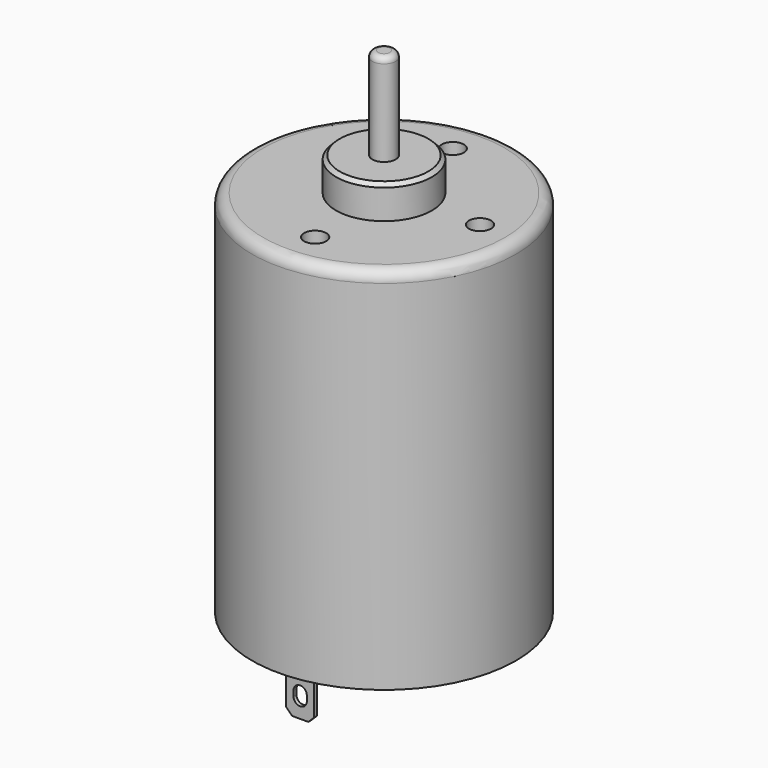
from build123d import *

# Parameters (mm, degrees)
F0_R      = 17.9
F1_DEPTH  = 50
F2_R      = 5.1
F3_DEPTH  = 3
F4_R      = 1.585
F5_DEPTH  = 1
F6_R      = 6.5
F7_DEPTH  = 4.5
F8_DEPTH  = 71
F9_W      = 6
F9_H      = 2.8
F10_DEPTH = 1
F11_W     = 3.8
F11_H     = 0.5
F12_DEPTH = 6
F13_SIZE  = 0.8
F14_R     = 0.5
F15_SIZE  = 0.3
F17_DEPTH = 1
F19_SIZE  = 0.5
F20_SIZE  = 0.5
F21_R     = 1.5
F22_R     = 0.8
F23_R     = 1.5
F24_DEPTH = 2
F25_COUNT = 3
F25_ANGLE = 180


with BuildPart() as f1:
    # F0 (on Top) → F1 (new body)
    with BuildSketch(Plane.XY):
        Circle(F0_R)
    extrude(amount=F1_DEPTH)

    # F2 (on face) → F3 (join)
    with BuildSketch(Plane(origin=(0, 0, 0), x_dir=(1, 0, 0), z_dir=(0, 0, -1))):
        Circle(F2_R)
    extrude(amount=F3_DEPTH)

    # F4 (on face) → F5 (join)
    with BuildSketch(Plane(origin=(0, 0, -3), x_dir=(1, 0, 0), z_dir=(0, 0, -1))):
        Circle(F4_R)
    extrude(amount=F5_DEPTH)

    # F6 (on face) → F7 (join)
    with BuildSketch(Plane.XY.offset(50)):
        Circle(F6_R)
    extrude(amount=F7_DEPTH)

    # F8 (add): a face of the model
    f8_faces = [f1.faces().sort_by_distance(p)[0] for p in [
        (0, 0, -4),
    ]]
    extrude(f8_faces, amount=-F8_DEPTH)



with BuildPart() as f10:
    # F9 (on face) → F10 (new body)
    with BuildSketch(Plane(origin=(0, 0, 0), x_dir=(1, 0, 0), z_dir=(0, 0, -1))):
        with Locations((0, -14.2)):
            Rectangle(F9_W, F9_H)
    extrude(amount=F10_DEPTH)

    # F11 (on face) → F12 (join)
    with BuildSketch(Plane(origin=(0, 0, -1), x_dir=(1, 0, 0), z_dir=(0, 0, -1))):
        with Locations((0, -13.95)):
            Rectangle(F11_W, F11_H)
    extrude(amount=F12_DEPTH)

    # F13
    f13_edges = [f10.edges().sort_by_distance(p)[0] for p in [
        (1.9, 13.95, -7),
        (-1.9, 13.95, -7),
    ]]
    chamfer(f13_edges, length=F13_SIZE)

    # F14
    f14_edges = [f10.edges().sort_by_distance(p)[0] for p in [
        (3, 15.6, -0.5),
        (-3, 15.6, -0.5),
        (3, 12.8, -0.5),
        (-3, 12.8, -0.5),
    ]]
    fillet(f14_edges, radius=F14_R)

    # F15
    f15_edges = [f10.edges().sort_by_distance(p)[0] for p in [
        (0, 12.8, -1),
    ]]
    chamfer(f15_edges, length=F15_SIZE)

    # F16 (on face) → F17 (cut)
    with BuildSketch(Plane(origin=(0, 14.2, 0), x_dir=(-1, 0, 0), z_dir=(0, 1, 0))):
        with BuildLine():
            Line((0.9, -4.6), (0.9, -3.9))
            ThreePointArc((0.9, -3.9), (0, -3), (-0.9, -3.9))
            Line((-0.9, -3.9), (-0.9, -4.6))
            ThreePointArc((-0.9, -4.6), (0, -5.5), (0.9, -4.6))
        make_face()
    extrude(amount=-F17_DEPTH, mode=Mode.SUBTRACT)


with BuildPart() as f1_1:
    add(f1.part)

    add(f10.part)  # F18 merges F10
    # F18: F10 across plane
    add(f10.part.mirror(Plane.XZ))

    # F19
    f19_edges = [f1_1.edges().sort_by_distance(p)[0] for p in [
        (-5.1, 0, -3),
    ]]
    chamfer(f19_edges, length=F19_SIZE)

    # F20
    f20_edges = [f1_1.edges().sort_by_distance(p)[0] for p in [
        (-6.5, 0, 54.5),
    ]]
    chamfer(f20_edges, length=F20_SIZE)

    # F21
    f21_edges = [f1_1.edges().sort_by_distance(p)[0] for p in [
        (-17.9, 0, 50),
    ]]
    fillet(f21_edges, radius=F21_R)

    # F22
    f22_edges = [f1_1.edges().sort_by_distance(p)[0] for p in [
        (-1.585, 0, 67),
    ]]
    fillet(f22_edges, radius=F22_R)

    # F25: F24 ×3 about axis
    f25_axis = Axis((0, 0, 0), (0, 0, 1))


with BuildPart() as f24:
    # F23 (on face) → F24 (new body)
    with BuildSketch(Plane.XY.offset(50)):
        with Locations((0.654199453, -12.4828691844)):
            Circle(F23_R)
    extrude(amount=-F24_DEPTH)


with BuildPart() as f1_2:
    add(f1_1.part)
    for i in range(1, F25_COUNT):
        add(f24.part.rotate(f25_axis, i * F25_ANGLE / (F25_COUNT - 1)), mode=Mode.SUBTRACT)

    # F25#seed: cut F24
    add(f24.part, mode=Mode.SUBTRACT)


solid = f1_2.part
